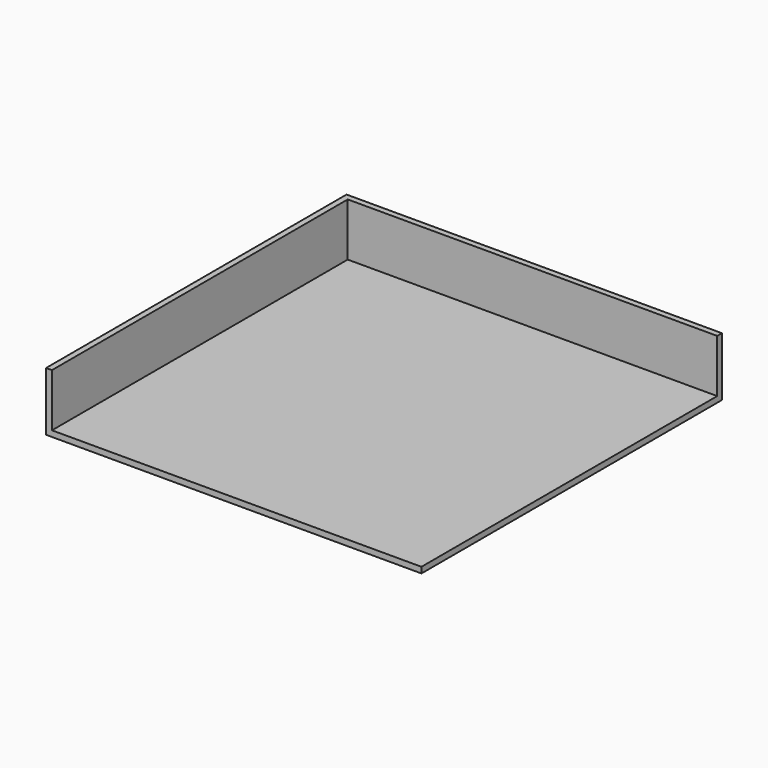
from build123d import *

# Parameters (mm, degrees)
F0_W     = 63.772633
F0_H     = 63.808089
F1_DEPTH = 10
F2_T     = -1


with BuildPart() as f1:
    # F0 (on Top) → F1 (new body)
    with BuildSketch(Plane.XY):
        with Locations((-8.393034, 4.014966)):
            Rectangle(F0_W, F0_H)
    extrude(amount=F1_DEPTH)

    # F2
    f2_openings = [f1.faces().sort_by_distance(p)[0] for p in [
        (23.493282, 4.014966, 5),
        (-8.393034, -27.889078, 5),
        (-8.393034, 4.014966, 10),
    ]]
    offset(amount=F2_T, openings=f2_openings)


solid = f1.part
